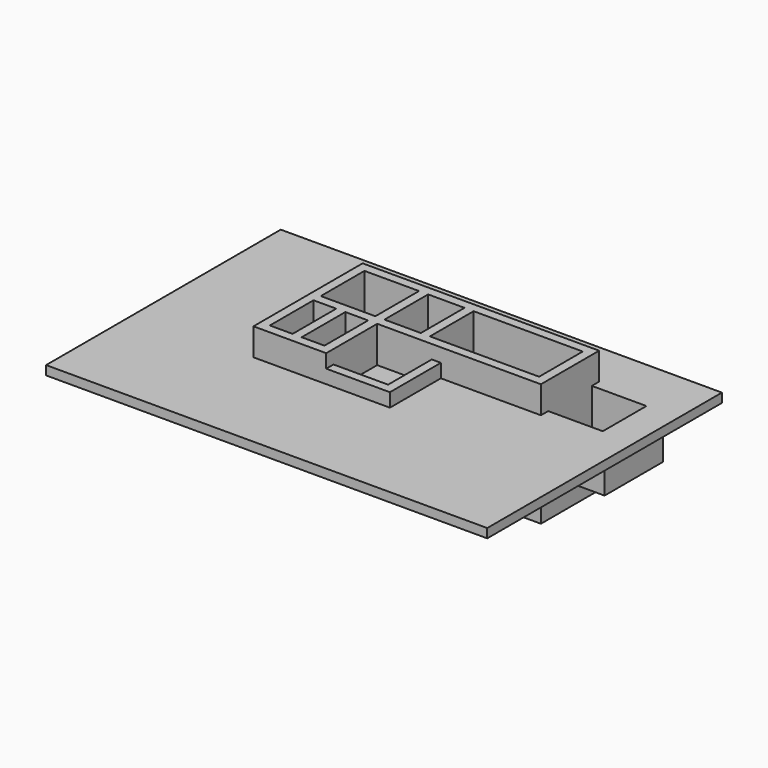
from build123d import *

# Parameters (mm, degrees)
F0_W      = 200
F0_H      = 200
F0_H_2    = 1200
F0_W_2    = 500
F0_W_3    = 1200
F1_DEPTH  = 1800
F2_DEPTH  = 600
F4_DEPTH  = 300
F0_W_4    = 800
F5_DEPTH  = 1800
F6_DEPTH  = 600
F7_DEPTH  = 300
F0_W_5    = 2400
F8_DEPTH  = 1800
F9_DEPTH  = 600
F10_DEPTH = 300
F11_DEPTH = 1200
F12_DEPTH = 600
F14_DEPTH = 300
F15_DEPTH = 200
F16_DEPTH = 300
F17_W     = 1400
F17_H     = 1400
F18_DEPTH = 150
F19_DEPTH = 800
F20_W     = 1400
F20_H     = 1600
F21_DEPTH = 300
F22_W     = 9700
F22_H     = 6450
F23_DEPTH = 200


with BuildPart() as f1:
    # F0 (on Top) → F1 (new body)
    with BuildSketch(Plane.XY):
        with Locations((100, 2900)):
            Rectangle(F0_W, F0_H)
        with Locations((100, 2200)):
            Rectangle(F0_W, F0_H_2)
        with Locations((100, 1500)):
            Rectangle(F0_W, F0_H)
        with Locations((450, 1500)):
            Rectangle(F0_W_2, F0_H)
        with Locations((800, 1500)):
            Rectangle(F0_W, F0_H)
        with Locations((1150, 1500)):
            Rectangle(F0_W_2, F0_H)
        with Locations((1500, 1500)):
            Rectangle(F0_W, F0_H)
        with Locations((1500, 2200)):
            Rectangle(F0_W, F0_H_2)
        with Locations((1500, 2900)):
            Rectangle(F0_W, F0_H)
        with Locations((800, 2900)):
            Rectangle(F0_W_3, F0_H)
    extrude(amount=-F1_DEPTH)

    # F0 (on Top) → F2 (join)
    with BuildSketch(Plane.XY):
        with Locations((100, 1500)):
            Rectangle(F0_W, F0_H)
        with Locations((450, 1500)):
            Rectangle(F0_W_2, F0_H)
        with Locations((800, 1500)):
            Rectangle(F0_W, F0_H)
        with Locations((1150, 1500)):
            Rectangle(F0_W_2, F0_H)
        with Locations((1500, 1500)):
            Rectangle(F0_W, F0_H)
        with Locations((1500, 2200)):
            Rectangle(F0_W, F0_H_2)
        with Locations((1500, 2900)):
            Rectangle(F0_W, F0_H)
        with Locations((800, 2900)):
            Rectangle(F0_W_3, F0_H)
        with Locations((100, 2900)):
            Rectangle(F0_W, F0_H)
        with Locations((100, 2200)):
            Rectangle(F0_W, F0_H_2)
    extrude(amount=F2_DEPTH)

    # F3 (on face) → F4 (join)
    with BuildSketch(Plane(origin=(0, 0, -1800), x_dir=(1, 0, 0), z_dir=(0, 0, -1))):
        Polygon((1400, -1400), (200, -1400), (0, -1400), (0, -3000), (1400, -3000), align=None)
        Polygon((1400, -1400), (200, -1400), (0, -1400), (0, -3000), (1400, -3000), (1400, -2800), align=None)
        Polygon((2600, -1400), (1600, -1400), (1600, -3000), (2600, -3000), (2600, -2800), (2600, -1600), align=None)
        Polygon((1400, -1400), (200, -1400), (0, -1400), (0, -3000), (1400, -3000), (1400, -2800), align=None)
    extrude(amount=F4_DEPTH)

    # F0 (on Top) → F5 (join)
    with BuildSketch(Plane.XY):
        with Locations((2000, 1500)):
            Rectangle(F0_W_4, F0_H)
        with Locations((2500, 1500)):
            Rectangle(F0_W, F0_H)
        with Locations((2500, 2200)):
            Rectangle(F0_W, F0_H_2)
        with Locations((2500, 2900)):
            Rectangle(F0_W, F0_H)
        with Locations((2000, 2900)):
            Rectangle(F0_W_4, F0_H)
    extrude(amount=-F5_DEPTH)

    # F0 (on Top) → F6 (join)
    with BuildSketch(Plane.XY):
        with Locations((2000, 2900)):
            Rectangle(F0_W_4, F0_H)
        with Locations((2500, 2900)):
            Rectangle(F0_W, F0_H)
        with Locations((2500, 2200)):
            Rectangle(F0_W, F0_H_2)
        with Locations((2500, 1500)):
            Rectangle(F0_W, F0_H)
        with Locations((2000, 1500)):
            Rectangle(F0_W_4, F0_H)
    extrude(amount=F6_DEPTH)

    # F3 (on face) → F7 (join)
    with BuildSketch(Plane(origin=(0, 0, -1800), x_dir=(1, 0, 0), z_dir=(0, 0, -1))):
        Polygon((1600, -1400), (1400, -1400), (1400, -2800), (1400, -3000), (1600, -3000), align=None)
    extrude(amount=F7_DEPTH)

    # F0 (on Top) → F8 (join)
    with BuildSketch(Plane.XY):
        with Locations((3800, 2900)):
            Rectangle(F0_W_5, F0_H)
        with Locations((5100, 2900)):
            Rectangle(F0_W, F0_H)
        with Locations((5100, 2200)):
            Rectangle(F0_W, F0_H_2)
        with Locations((5100, 1500)):
            Rectangle(F0_W, F0_H)
        Polygon((2600, 1400), (2800, 1400), (3000, 1400), (5000, 1400), (5000, 1600), (2600, 1600), align=None)
    extrude(amount=-F8_DEPTH)

    # F0 (on Top) → F9 (join)
    with BuildSketch(Plane.XY):
        Polygon((2600, 1400), (2800, 1400), (3000, 1400), (5000, 1400), (5000, 1600), (2600, 1600), align=None)
        with Locations((5100, 1500)):
            Rectangle(F0_W, F0_H)
        with Locations((5100, 2200)):
            Rectangle(F0_W, F0_H_2)
        with Locations((5100, 2900)):
            Rectangle(F0_W, F0_H)
        with Locations((3800, 2900)):
            Rectangle(F0_W_5, F0_H)
    extrude(amount=F9_DEPTH)

    # F3 (on face) → F10 (join)
    with BuildSketch(Plane(origin=(0, 0, -1800), x_dir=(1, 0, 0), z_dir=(0, 0, -1))):
        Polygon((5200, -1400), (2600, -1400), (2600, -1600), (2600, -2800), (2600, -3000), (5200, -3000), align=None)
    extrude(amount=F10_DEPTH)

    # F0 (on Top) → F11 (join)
    with BuildSketch(Plane.XY):
        with Locations((100, 800)):
            Rectangle(F0_W, F0_H_2)
        with Locations((100, 100)):
            Rectangle(F0_W, F0_H)
        with Locations((450, 100)):
            Rectangle(F0_W_2, F0_H)
        with Locations((800, 100)):
            Rectangle(F0_W, F0_H)
        with Locations((800, 800)):
            Rectangle(F0_W, F0_H_2)
        with Locations((1150, 100)):
            Rectangle(F0_W_2, F0_H)
        with Locations((1500, 100)):
            Rectangle(F0_W, F0_H)
        with Locations((1500, 800)):
            Rectangle(F0_W, F0_H_2)
    extrude(amount=-F11_DEPTH)

    # F0 (on Top) → F12 (join)
    with BuildSketch(Plane.XY):
        with Locations((1500, 800)):
            Rectangle(F0_W, F0_H_2)
        with Locations((1500, 100)):
            Rectangle(F0_W, F0_H)
        with Locations((1150, 100)):
            Rectangle(F0_W_2, F0_H)
        with Locations((800, 100)):
            Rectangle(F0_W, F0_H)
        with Locations((800, 800)):
            Rectangle(F0_W, F0_H_2)
        with Locations((450, 100)):
            Rectangle(F0_W_2, F0_H)
        with Locations((100, 100)):
            Rectangle(F0_W, F0_H)
        with Locations((100, 800)):
            Rectangle(F0_W, F0_H_2)
    extrude(amount=F12_DEPTH)

    # F13 (on face) → F14 (join)
    with BuildSketch(Plane(origin=(0, 0, -1200), x_dir=(1, 0, 0), z_dir=(0, 0, -1))):
        Polygon((1600, 0), (0, 0), (0, -1400), (1600, -1400), (1600, -200), align=None)
    extrude(amount=F14_DEPTH)



with BuildPart() as f15:
    # F0 (on Top) → F15 (new body)
    with BuildSketch(Plane.XY):
        with Locations((2900, 800)):
            Rectangle(F0_W, F0_H_2)
        with Locations((2900, 100)):
            Rectangle(F0_W, F0_H)
        with Locations((2200, 100)):
            Rectangle(F0_W_3, F0_H)
    extrude(amount=-F15_DEPTH)


with BuildPart() as f1_1:
    add(f1.part)

    add(f15.part)  # F16 merges F15
    # F0 (on Top) → F16 (join)
    with BuildSketch(Plane.XY):
        with Locations((2900, 800)):
            Rectangle(F0_W, F0_H_2)
        with Locations((2900, 100)):
            Rectangle(F0_W, F0_H)
        with Locations((2200, 100)):
            Rectangle(F0_W_3, F0_H)
    extrude(amount=F16_DEPTH)

    # F17 (on face) → F18 (join)
    with BuildSketch(Plane(origin=(0, 0, -200), x_dir=(1, 0, 0), z_dir=(0, 0, -1))):
        with Locations((2300, -700)):
            Rectangle(F17_W, F17_H)
    extrude(amount=F18_DEPTH)

    # F0 (on Top) → F19 (join)
    with BuildSketch(Plane.XY):
        with Locations((5800, 2900)):
            Rectangle(F0_W_3, F0_H)
        with Locations((6500, 2900)):
            Rectangle(F0_W, F0_H)
        with Locations((6500, 2200)):
            Rectangle(F0_W, F0_H_2)
        with Locations((6500, 1500)):
            Rectangle(F0_W, F0_H)
        with Locations((5800, 1500)):
            Rectangle(F0_W_3, F0_H)
    extrude(amount=-F19_DEPTH)

    # F20 (on face) → F21 (join)
    with BuildSketch(Plane(origin=(0, 0, -800), x_dir=(1, 0, 0), z_dir=(0, 0, -1))):
        with Locations((5900, -2200)):
            Rectangle(F20_W, F20_H)
    extrude(amount=F21_DEPTH)

    # F22 (on Top) → F23 (join)
    with BuildSketch(Plane.XY):
        with Locations((2250, 775)):
            Rectangle(F22_W, F22_H)
        Polygon((1600, 0), (0, 0), (0, 3000), (5200, 3000), (6600, 3000), (6600, 1400), (5200, 1400), (3000, 1400), (3000, 0), align=None, mode=Mode.SUBTRACT)
    extrude(amount=-F23_DEPTH)


solid = f1_1.part
